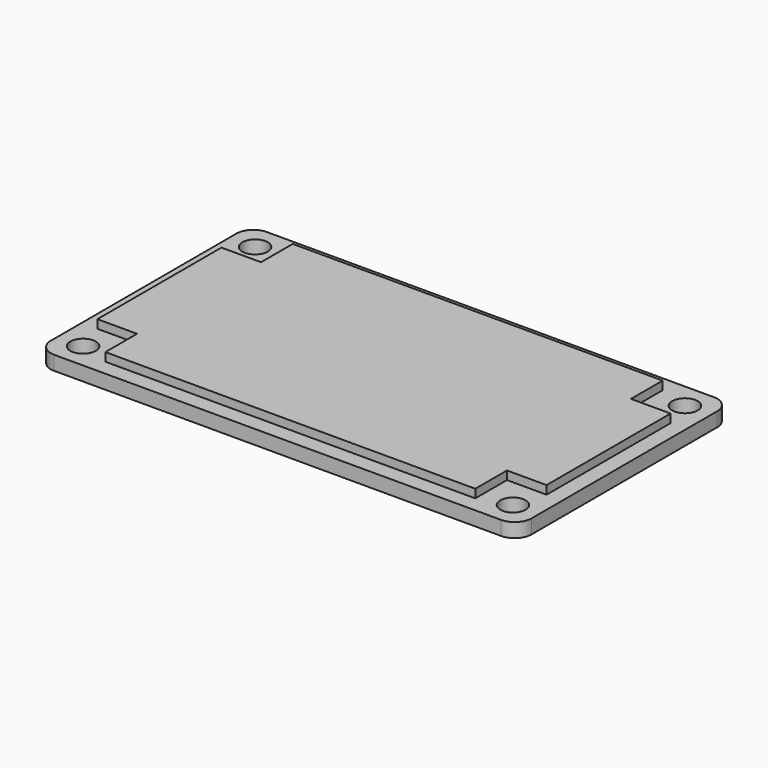
from build123d import *

# Parameters (mm, degrees)
F0_R     = 2.25
F1_DEPTH = 2.5
F3_DEPTH = 1.5


with BuildPart() as f1:
    # F0 (on Top) → F1 (new body)
    with BuildSketch(Plane.XY):
        with BuildLine():
            Line((39.5, 23.5), (-39.5, 23.5))
            ThreePointArc((-39.5, 23.5), (-41.62132, 22.62132), (-42.5, 20.5))
            Line((-42.5, 20.5), (-42.5, -20.5))
            ThreePointArc((-42.5, -20.5), (-41.62132, -22.62132), (-39.5, -23.5))
            Line((-39.5, -23.5), (39.5, -23.5))
            ThreePointArc((39.5, -23.5), (41.62132, -22.62132), (42.5, -20.5))
            Line((42.5, -20.5), (42.5, 20.5))
            ThreePointArc((42.5, 20.5), (41.62132, 22.62132), (39.5, 23.5))
        make_face()
        with Locations((-38, -19)):
            Circle(F0_R, mode=Mode.SUBTRACT)
        with Locations((38, -19)):
            Circle(F0_R, mode=Mode.SUBTRACT)
        with Locations((-38, 19)):
            Circle(F0_R, mode=Mode.SUBTRACT)
        with Locations((38, 19)):
            Circle(F0_R, mode=Mode.SUBTRACT)
    extrude(amount=F1_DEPTH)

    # F2 (on face) → F3 (join)
    with BuildSketch(Plane.XY.offset(2.5)):
        Polygon((-39.7, 0), (-39.7, -13.7), (-32.7, -13.7), (-32.7, -20.7), (0, -20.7), (32.7, -20.7), (32.7, -13.7), (39.7, -13.7), (39.7, 0), (39.7, 13.7), (32.7, 13.7), (32.7, 20.7), (0, 20.7), (-32.7, 20.7), (-32.7, 13.7), (-39.7, 13.7), align=None)
    extrude(amount=F3_DEPTH)


solid = f1.part
